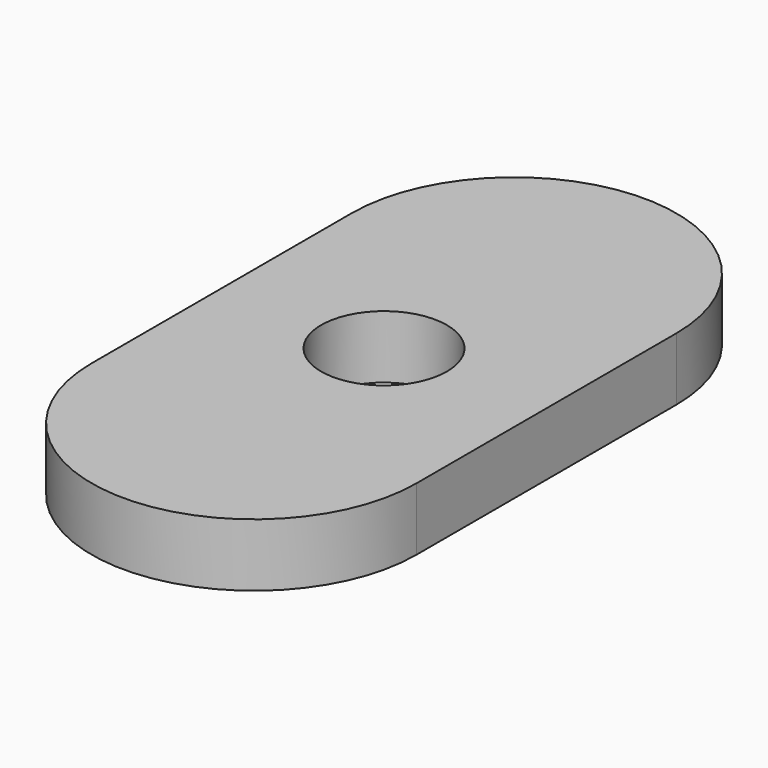
from build123d import *

# Parameters (mm, degrees)
F0_W     = 15.5
F0_H     = 15.5
F0_R     = 3
F1_DEPTH = 3


with BuildPart() as f1:
    # F0 (on Top) → F1 (new body)
    with BuildSketch(Plane.XY):
        with BuildLine():
            ThreePointArc((7.75, 7.75), (0, 15.5), (-7.75, 7.75))
            Line((-7.75, 7.75), (7.75, 7.75))
        make_face()
        Rectangle(F0_W, F0_H)
        Circle(F0_R, mode=Mode.SUBTRACT)
        with BuildLine():
            Line((7.75, -7.75), (-7.75, -7.75))
            ThreePointArc((-7.75, -7.75), (0, -15.5), (7.75, -7.75))
        make_face()
    extrude(amount=F1_DEPTH)


solid = f1.part
